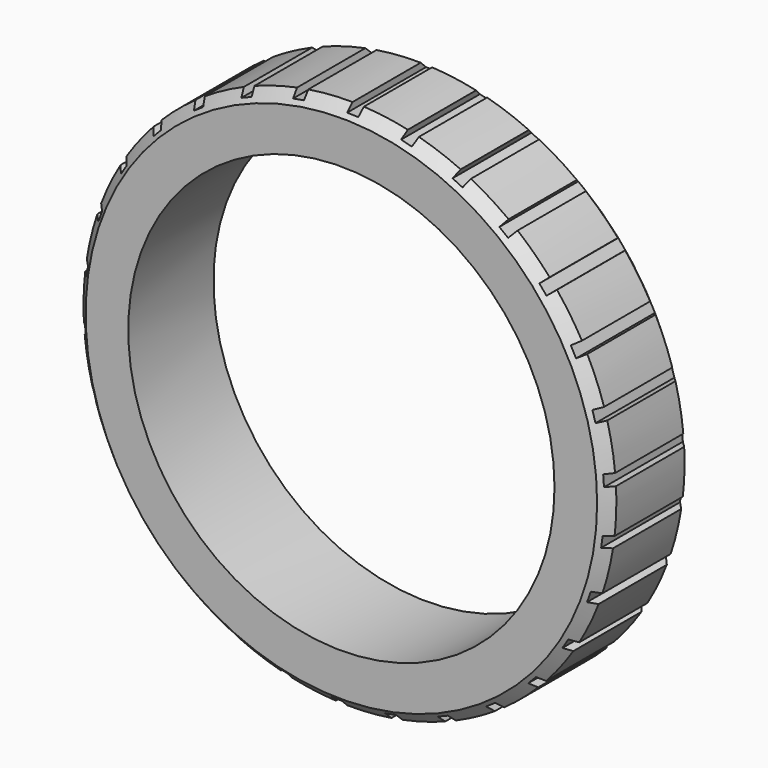
from build123d import *

# Parameters (mm, degrees)
F0_R     = 127
F0_R_2   = 101.6
F1_DEPTH = 50.8
F2_SIZE  = 5.08
F4_DEPTH = 50.8


with BuildPart() as f1:
    # F0 (on Front) → F1 (new body)
    with BuildSketch(Plane.XZ):
        Circle(F0_R)
        Circle(F0_R_2, mode=Mode.SUBTRACT)
    extrude(amount=F1_DEPTH)

    # F2
    f2_edges = [f1.edges().sort_by_distance(p)[0] for p in [
        (-127, 0, 0),
        (-127, -50.8, 0),
    ]]
    chamfer(f2_edges, length=F2_SIZE)

    # F3 (on Front) → F4 (cut)
    with BuildSketch(Plane.XZ):
        with BuildLine():
            Line((56.2464101396, 110.3130634667), (57.6886257842, 113.1416035556))
            ThreePointArc((57.6886257842, 113.1416035556), (55.2578598529, 114.3484539663), (52.8018610947, 115.5030885515))
            Line((52.8018610947, 115.5030885515), (51.4818145673, 112.6155113377))
            ThreePointArc((51.4818145673, 112.6155113377), (53.8764133566, 111.4897426171), (56.2464101396, 110.3130634667))
        make_face()
        with BuildLine():
            Line((27.6335713086, 123.9571931625), (26.9427320259, 120.8582633335))
            ThreePointArc((26.9427320259, 120.8582633335), (29.5190635646, 120.2549604435), (32.0819155833, 119.5967445941))
            Line((32.0819155833, 119.5967445941), (32.9045288033, 122.6633277888))
            ThreePointArc((32.9045288033, 122.6633277888), (30.2759626303, 123.3384209677), (27.6335713086, 123.9571931625))
        make_face()
        with BuildLine():
            Line((1.2575618558, 126.9937736197), (1.2261228094, 123.8189292792))
            ThreePointArc((1.2261228094, 123.8189292792), (3.8715890465, 123.7644594512), (6.5152873698, 123.6534740939))
            Line((6.5152873698, 123.6534740939), (6.6823460204, 126.8240759937))
            ThreePointArc((6.6823460204, 126.8240759937), (3.9708605606, 126.9379071295), (1.2575618558, 126.9937736197))
        make_face()
        with BuildLine():
            Line((-25.1734090846, 124.480116786), (-24.5440738575, 121.3681138664))
            ThreePointArc((-24.5440738575, 121.3681138664), (-21.9450924907, 121.8648576932), (-19.3360901654, 122.3059534206))
            Line((-19.3360901654, 122.3059534206), (-19.8318873492, 125.4420035083))
            ThreePointArc((-19.8318873492, 125.4420035083), (-22.50778717, 124.989597634), (-25.1734090846, 124.480116786))
        make_face()
        with BuildLine():
            Line((-50.5041812526, 116.5260815269), (-49.2415767213, 113.6129294887))
            ThreePointArc((-49.2415767213, 113.6129294887), (-46.802668182, 114.6391768814), (-44.3423877756, 115.6130756937))
            Line((-44.3423877756, 115.6130756937), (-45.4793720776, 118.577513532))
            ThreePointArc((-45.4793720776, 118.577513532), (-48.0027365969, 117.5786429553), (-50.5041812526, 116.5260815269))
        make_face()
        with BuildLine():
            Line((-73.6276783538, 103.4792973508), (-71.786986395, 100.8923149171))
            ThreePointArc((-71.786986395, 100.8923149171), (-69.6147426895, 102.4032139402), (-67.4107102617, 103.8673517859))
            Line((-67.4107102617, 103.8673517859), (-69.139190012, 106.5306172163))
            ThreePointArc((-69.139190012, 106.5306172163), (-71.3997360918, 105.0289373745), (-73.6276783538, 103.4792973508))
        make_face()
        with BuildLine():
            Line((-93.5332926063, 85.9099713318), (-91.1949602911, 83.7622220485))
            ThreePointArc((-91.1949602911, 83.7622220485), (-89.3843188929, 85.6917391646), (-87.5328612368, 87.5821261942))
            Line((-87.5328612368, 87.5821261942), (-89.7772935762, 89.8278217377))
            ThreePointArc((-89.7772935762, 89.8278217377), (-91.6762245055, 87.8889632457), (-93.5332926063, 85.9099713318))
        make_face()
        with BuildLine():
            Line((-109.3510531492, 64.5859673238), (-106.6172768205, 62.9713181407))
            ThreePointArc((-106.6172768205, 62.9713181407), (-105.2473714471, 65.2351241929), (-103.8294061466, 67.4691414222))
            Line((-103.8294061466, 67.4691414222), (-106.4916986119, 69.1991194074))
            ThreePointArc((-106.4916986119, 69.1991194074), (-107.9460219971, 66.9078196851), (-109.3510531492, 64.5859673238))
        make_face()
        with BuildLine():
            Line((-120.389647945, 40.4392466259), (-117.3799067464, 39.4282654602))
            ThreePointArc((-117.3799067464, 39.4282654602), (-116.5106088362, 41.9274212612), (-115.588107779, 44.4074314171))
            Line((-115.588107779, 44.4074314171), (-118.5519054144, 45.5460835048))
            ThreePointArc((-118.5519054144, 45.5460835048), (-119.4980603448, 43.0024833448), (-120.389647945, 40.4392466259))
        make_face()
        with BuildLine():
            Line((-126.166637432, 14.5251368014), (-123.0124714962, 14.1620083813))
            ThreePointArc((-123.0124714962, 14.1620083813), (-122.6817735392, 16.7872888302), (-122.2950544482, 19.4049035687))
            Line((-122.2950544482, 19.4049035687), (-125.4308250751, 19.9024651986))
            ThreePointArc((-125.4308250751, 19.9024651986), (-125.8274600402, 17.2177321336), (-126.166637432, 14.5251368014))
        make_face()
        with BuildLine():
            Line((-126.4295394485, -12.0237912007), (-123.2688009623, -11.7231964207))
            ThreePointArc((-123.2688009623, -11.7231964207), (-123.4911560461, -9.0865286769), (-123.6571204012, -6.4457116808))
            Line((-123.6571204012, -6.4457116808), (-126.8278157961, -6.6109863393))
            ThreePointArc((-126.8278157961, -6.6109863393), (-126.6575959447, -9.3195165917), (-126.4295394485, -12.0237912007))
        make_face()
        with BuildLine():
            Line((-121.1668639149, -38.0472218307), (-118.137692317, -37.096041285))
            ThreePointArc((-118.137692317, -37.096041285), (-118.9033824575, -34.5632212789), (-119.61477682, -32.0146183999))
            Line((-119.61477682, -32.0146183999), (-122.6818223795, -32.8355060512))
            ThreePointArc((-122.6818223795, -32.8355060512), (-121.9521871359, -35.449457722), (-121.1668639149, -38.0472218307))
        make_face()
        with BuildLine():
            Line((-110.608615005, -62.4078062959), (-107.8433996299, -60.8476111385))
            ThreePointArc((-107.8433996299, -60.8476111385), (-109.1189604937, -58.5293352583), (-110.3446935164, -56.1843326717))
            Line((-110.3446935164, -56.1843326717), (-113.1740446322, -57.6249565864))
            ThreePointArc((-113.1740446322, -57.6249565864), (-111.9168825576, -60.0300874444), (-110.608615005, -62.4078062959))
        make_face()
        with BuildLine():
            Line((-95.2162388604, -84.0408701601), (-92.8358328889, -81.9398484061))
            ThreePointArc((-92.8358328889, -81.9398484061), (-94.5655163455, -79.937436432), (-96.2520176136, -77.8985220034))
            Line((-96.2520176136, -77.8985220034), (-98.7200180652, -79.8959200035))
            ThreePointArc((-98.7200180652, -79.8959200035), (-96.9902731748, -81.9871142892), (-95.2162388604, -84.0408701601))
        make_face()
        with BuildLine():
            Line((-75.6624561794, -102.0009447255), (-73.770894775, -99.4509211074))
            ThreePointArc((-73.770894775, -99.4509211074), (-75.8791053573, -97.8518880512), (-77.9526666726, -96.208172125))
            Line((-77.9526666726, -96.208172125), (-79.9514529975, -98.6750483333))
            ThreePointArc((-79.9514529975, -98.6750483333), (-77.8247234434, -100.3609108217), (-75.6624561794, -102.0009447255))
        make_face()
        with BuildLine():
            Line((-52.8018610947, -115.5030885515), (-51.4818145673, -112.6155113377))
            ThreePointArc((-51.4818145673, -112.6155113377), (-53.8764133566, -111.4897426171), (-56.2464101396, -110.3130634667))
            Line((-56.2464101396, -110.3130634667), (-57.6886257842, -113.1416035556))
            ThreePointArc((-57.6886257842, -113.1416035556), (-55.2578598529, -114.3484539663), (-52.8018610947, -115.5030885515))
        make_face()
        with BuildLine():
            Line((-27.6335713086, -123.9571931625), (-26.9427320259, -120.8582633335))
            ThreePointArc((-26.9427320259, -120.8582633335), (-29.5190635646, -120.2549604435), (-32.0819155833, -119.5967445941))
            Line((-32.0819155833, -119.5967445941), (-32.9045288033, -122.6633277888))
            ThreePointArc((-32.9045288033, -122.6633277888), (-30.2759626303, -123.3384209677), (-27.6335713086, -123.9571931625))
        make_face()
        with BuildLine():
            Line((-1.2575618558, -126.9937736197), (-1.2261228094, -123.8189292792))
            ThreePointArc((-1.2261228094, -123.8189292792), (-3.8715890465, -123.7644594512), (-6.5152873698, -123.6534740939))
            Line((-6.5152873698, -123.6534740939), (-6.6823460204, -126.8240759937))
            ThreePointArc((-6.6823460204, -126.8240759937), (-3.9708605606, -126.9379071295), (-1.2575618558, -126.9937736197))
        make_face()
        with BuildLine():
            Line((25.1734090846, -124.480116786), (24.5440738575, -121.3681138664))
            ThreePointArc((24.5440738575, -121.3681138664), (21.9450924907, -121.8648576932), (19.3360901654, -122.3059534206))
            Line((19.3360901654, -122.3059534206), (19.8318873492, -125.4420035083))
            ThreePointArc((19.8318873492, -125.4420035083), (22.50778717, -124.989597634), (25.1734090846, -124.480116786))
        make_face()
        with BuildLine():
            Line((50.5041812526, -116.5260815269), (49.2415767213, -113.6129294887))
            ThreePointArc((49.2415767213, -113.6129294887), (46.802668182, -114.6391768814), (44.3423877756, -115.6130756937))
            Line((44.3423877756, -115.6130756937), (45.4793720776, -118.577513532))
            ThreePointArc((45.4793720776, -118.577513532), (48.0027365969, -117.5786429553), (50.5041812526, -116.5260815269))
        make_face()
        with BuildLine():
            Line((73.6276783538, -103.4792973508), (71.786986395, -100.8923149171))
            ThreePointArc((71.786986395, -100.8923149171), (69.6147426895, -102.4032139402), (67.4107102617, -103.8673517859))
            Line((67.4107102617, -103.8673517859), (69.139190012, -106.5306172163))
            ThreePointArc((69.139190012, -106.5306172163), (71.3997360918, -105.0289373745), (73.6276783538, -103.4792973508))
        make_face()
        with BuildLine():
            Line((93.5332926063, -85.9099713318), (91.1949602911, -83.7622220485))
            ThreePointArc((91.1949602911, -83.7622220485), (89.3843188929, -85.6917391646), (87.5328612368, -87.5821261942))
            Line((87.5328612368, -87.5821261942), (89.7772935762, -89.8278217377))
            ThreePointArc((89.7772935762, -89.8278217377), (91.6762245055, -87.8889632457), (93.5332926063, -85.9099713318))
        make_face()
        with BuildLine():
            Line((109.3510531492, -64.5859673238), (106.6172768205, -62.9713181407))
            ThreePointArc((106.6172768205, -62.9713181407), (105.2473714471, -65.2351241929), (103.8294061466, -67.4691414222))
            Line((103.8294061466, -67.4691414222), (106.4916986119, -69.1991194074))
            ThreePointArc((106.4916986119, -69.1991194074), (107.9460219971, -66.9078196851), (109.3510531492, -64.5859673238))
        make_face()
        with BuildLine():
            Line((120.389647945, -40.4392466259), (117.3799067464, -39.4282654602))
            ThreePointArc((117.3799067464, -39.4282654602), (116.5106088362, -41.9274212612), (115.588107779, -44.4074314171))
            Line((115.588107779, -44.4074314171), (118.5519054144, -45.5460835048))
            ThreePointArc((118.5519054144, -45.5460835048), (119.4980603448, -43.0024833448), (120.389647945, -40.4392466259))
        make_face()
        with BuildLine():
            Line((126.166637432, -14.5251368014), (123.0124714962, -14.1620083813))
            ThreePointArc((123.0124714962, -14.1620083813), (122.6817735392, -16.7872888302), (122.2950544482, -19.4049035687))
            Line((122.2950544482, -19.4049035687), (125.4308250751, -19.9024651986))
            ThreePointArc((125.4308250751, -19.9024651986), (125.8274600402, -17.2177321336), (126.166637432, -14.5251368014))
        make_face()
        with BuildLine():
            Line((126.4295394485, 12.0237912007), (123.2688009623, 11.7231964207))
            ThreePointArc((123.2688009623, 11.7231964207), (123.4911560461, 9.0865286769), (123.6571204012, 6.4457116808))
            Line((123.6571204012, 6.4457116808), (126.8278157961, 6.6109863393))
            ThreePointArc((126.8278157961, 6.6109863393), (126.6575959447, 9.3195165917), (126.4295394485, 12.0237912007))
        make_face()
        with BuildLine():
            Line((121.1668639149, 38.0472218307), (118.137692317, 37.096041285))
            ThreePointArc((118.137692317, 37.096041285), (118.9033824575, 34.5632212789), (119.61477682, 32.0146183999))
            Line((119.61477682, 32.0146183999), (122.6818223795, 32.8355060512))
            ThreePointArc((122.6818223795, 32.8355060512), (121.9521871359, 35.449457722), (121.1668639149, 38.0472218307))
        make_face()
        with BuildLine():
            Line((110.608615005, 62.4078062959), (107.8433996299, 60.8476111385))
            ThreePointArc((107.8433996299, 60.8476111385), (109.1189604937, 58.5293352583), (110.3446935164, 56.1843326717))
            Line((110.3446935164, 56.1843326717), (113.1740446322, 57.6249565864))
            ThreePointArc((113.1740446322, 57.6249565864), (111.9168825576, 60.0300874444), (110.608615005, 62.4078062959))
        make_face()
        with BuildLine():
            Line((95.2162388604, 84.0408701601), (92.8358328889, 81.9398484061))
            ThreePointArc((92.8358328889, 81.9398484061), (94.5655163455, 79.937436432), (96.2520176136, 77.8985220034))
            Line((96.2520176136, 77.8985220034), (98.7200180652, 79.8959200035))
            ThreePointArc((98.7200180652, 79.8959200035), (96.9902731748, 81.9871142892), (95.2162388604, 84.0408701601))
        make_face()
        with BuildLine():
            Line((75.6624561794, 102.0009447255), (73.770894775, 99.4509211074))
            ThreePointArc((73.770894775, 99.4509211074), (75.8791053573, 97.8518880512), (77.9526666726, 96.208172125))
            Line((77.9526666726, 96.208172125), (79.9514529975, 98.6750483333))
            ThreePointArc((79.9514529975, 98.6750483333), (77.8247234434, 100.3609108217), (75.6624561794, 102.0009447255))
        make_face()
    extrude(amount=F4_DEPTH, mode=Mode.SUBTRACT)


solid = f1.part
